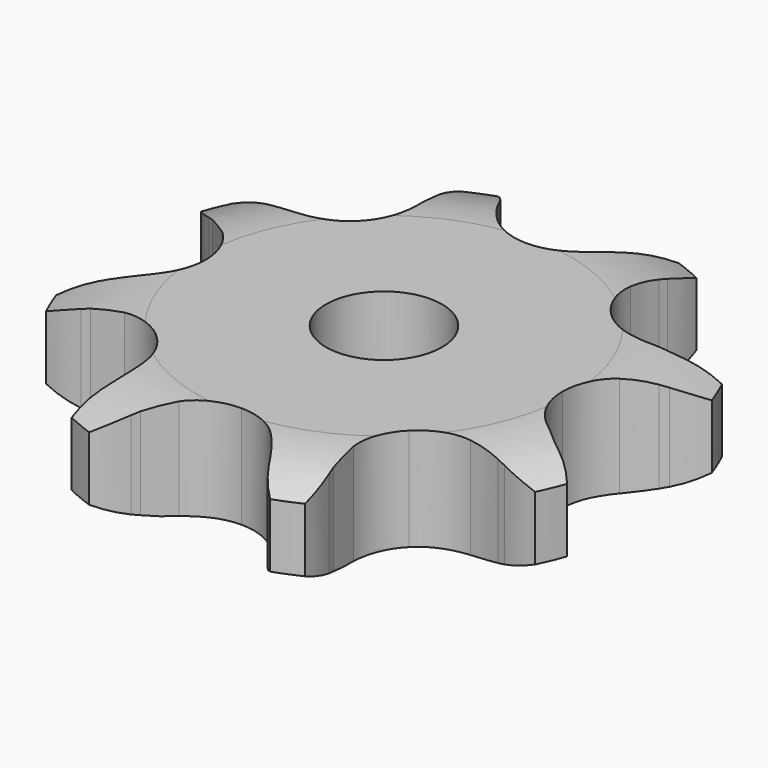
from build123d import *

# Parameters (mm, degrees)
PAD_DEPTH         = 5.3
SKETCH001_R       = 3
POCKET_DEPTH      = 0.001
POCKET_DEPTH_BACK = -5.301


with BuildPart() as part:
    # Sprocket → Pad (new body)
    with BuildSketch(Plane.XY):
        with BuildLine():
            ThreePointArc((-5.766758, 13.922185), (-4.521193, 13.063008), (-3.559374, 11.894879))
            Line((-3.559374, 11.894879), (-3.339197, 11.535583))
            ThreePointArc((-3.339197, 11.535583), (-2.890474, 10.876545), (-2.38065, 10.263548))
            ThreePointArc((-2.38065, 10.263548), (-1.300459, 9.489494), (0, 9.216037))
            ThreePointArc((0, 9.216037), (1.300459, 9.489494), (2.38065, 10.263548))
            ThreePointArc((2.38065, 10.263548), (2.890474, 10.876545), (3.339197, 11.535583))
            Line((3.339197, 11.535583), (3.559374, 11.894879))
            ThreePointArc((3.559374, 11.894879), (4.521193, 13.063008), (5.766758, 13.922185))
            ThreePointArc((5.766758, 13.922185), (6.039975, 12.433907), (5.894092, 10.927807))
            Line((5.894092, 10.927807), (5.79572, 10.518058))
            ThreePointArc((5.79572, 10.518058), (5.647005, 9.734752), (5.574051, 8.940798))
            ThreePointArc((5.574051, 8.940798), (5.790522, 7.629649), (6.516722, 6.516722))
            ThreePointArc((6.516722, 6.516722), (7.629649, 5.790522), (8.940798, 5.574051))
            Line((8.940798, 5.574051), (10.518058, 5.79572))
            ThreePointArc((10.518058, 5.79572), (10.722309, 5.847504), (10.927807, 5.894092))
            ThreePointArc((10.927807, 5.894092), (12.433907, 6.039975), (13.922185, 5.766758))
            ThreePointArc((13.922185, 5.766758), (13.063008, 4.521193), (11.894879, 3.559374))
            Line((11.894879, 3.559374), (11.535583, 3.339197))
            ThreePointArc((11.535583, 3.339197), (10.876545, 2.890474), (10.263548, 2.38065))
            ThreePointArc((10.263548, 2.38065), (9.489494, 1.300459), (9.216037, 0))
            ThreePointArc((9.216037, 0), (9.489494, -1.300459), (10.263548, -2.38065))
            Line((10.263548, -2.38065), (11.535583, -3.339197))
            ThreePointArc((11.535583, -3.339197), (11.716627, -3.447007), (11.894879, -3.559374))
            ThreePointArc((11.894879, -3.559374), (13.063008, -4.521193), (13.922185, -5.766758))
            ThreePointArc((13.922185, -5.766758), (12.433907, -6.039975), (10.927807, -5.894092))
            Line((10.927807, -5.894092), (10.518058, -5.79572))
            ThreePointArc((10.518058, -5.79572), (9.734752, -5.647005), (8.940798, -5.574051))
            ThreePointArc((8.940798, -5.574051), (7.629649, -5.790522), (6.516722, -6.516722))
            ThreePointArc((6.516722, -6.516722), (5.790522, -7.629649), (5.574051, -8.940798))
            Line((5.574051, -8.940798), (5.79572, -10.518058))
            ThreePointArc((5.79572, -10.518058), (5.847504, -10.722309), (5.894092, -10.927807))
            ThreePointArc((5.894092, -10.927807), (6.039975, -12.433907), (5.766758, -13.922185))
            ThreePointArc((5.766758, -13.922185), (4.521193, -13.063008), (3.559374, -11.894879))
            Line((3.559374, -11.894879), (3.339197, -11.535583))
            ThreePointArc((3.339197, -11.535583), (2.890474, -10.876545), (2.38065, -10.263548))
            ThreePointArc((2.38065, -10.263548), (1.300459, -9.489494), (0, -9.216037))
            ThreePointArc((0, -9.216037), (-1.300459, -9.489494), (-2.38065, -10.263548))
            Line((-2.38065, -10.263548), (-3.339197, -11.535583))
            ThreePointArc((-3.339197, -11.535583), (-3.447007, -11.716627), (-3.559374, -11.894879))
            ThreePointArc((-3.559374, -11.894879), (-4.521193, -13.063008), (-5.766758, -13.922185))
            ThreePointArc((-5.766758, -13.922185), (-6.039975, -12.433907), (-5.894092, -10.927807))
            Line((-5.894092, -10.927807), (-5.79572, -10.518058))
            ThreePointArc((-5.79572, -10.518058), (-5.647005, -9.734752), (-5.574051, -8.940798))
            ThreePointArc((-5.574051, -8.940798), (-5.790522, -7.629649), (-6.516722, -6.516722))
            ThreePointArc((-6.516722, -6.516722), (-7.629649, -5.790522), (-8.940798, -5.574051))
            Line((-8.940798, -5.574051), (-10.518058, -5.79572))
            ThreePointArc((-10.518058, -5.79572), (-10.722309, -5.847504), (-10.927807, -5.894092))
            ThreePointArc((-10.927807, -5.894092), (-12.433907, -6.039975), (-13.922185, -5.766758))
            ThreePointArc((-13.922185, -5.766758), (-13.063008, -4.521193), (-11.894879, -3.559374))
            Line((-11.894879, -3.559374), (-11.535583, -3.339197))
            ThreePointArc((-11.535583, -3.339197), (-10.876545, -2.890474), (-10.263548, -2.38065))
            ThreePointArc((-10.263548, -2.38065), (-9.489494, -1.300459), (-9.216037, 0))
            ThreePointArc((-9.216037, 0), (-9.489494, 1.300459), (-10.263548, 2.38065))
            Line((-10.263548, 2.38065), (-11.535583, 3.339197))
            ThreePointArc((-11.535583, 3.339197), (-11.716627, 3.447007), (-11.894879, 3.559374))
            ThreePointArc((-11.894879, 3.559374), (-13.063008, 4.521193), (-13.922185, 5.766758))
            ThreePointArc((-13.922185, 5.766758), (-12.433907, 6.039975), (-10.927807, 5.894092))
            Line((-10.927807, 5.894092), (-10.518058, 5.79572))
            ThreePointArc((-10.518058, 5.79572), (-9.734752, 5.647005), (-8.940798, 5.574051))
            ThreePointArc((-8.940798, 5.574051), (-7.629649, 5.790522), (-6.516722, 6.516722))
            ThreePointArc((-6.516722, 6.516722), (-5.790522, 7.629649), (-5.574051, 8.940798))
            Line((-5.574051, 8.940798), (-5.79572, 10.518058))
            ThreePointArc((-5.79572, 10.518058), (-5.847504, 10.722309), (-5.894092, 10.927807))
            ThreePointArc((-5.894092, 10.927807), (-6.039975, 12.433907), (-5.766758, 13.922185))
        make_face()
    extrude(amount=PAD_DEPTH)

    # Sketch → Groove (revolve, cut)
    with BuildSketch(Plane.XZ):
        with BuildLine():
            Line((9.641101, 0), (14, 0))
            Line((18.358899, 0), (14, 0))
            Line((18.358899, 5.3), (18.358899, 0))
            Line((14, 5.3), (18.358899, 5.3))
            Line((9.641101, 5.3), (14, 5.3))
            ThreePointArc((14, 4.3), (11.877169, 5.046794), (9.641101, 5.3))
            Line((14, 1), (14, 4.3))
            ThreePointArc((9.641101, 0), (11.877169, 0.253206), (14, 1))
        make_face()
    revolve(axis=Axis((0, 0, 0), (0, 0, 1)), mode=Mode.SUBTRACT)

    # Sketch001 → Pocket (cut, two sides)
    with BuildSketch(Plane.XY) as pocket_sk:
        Circle(SKETCH001_R)
    extrude(amount=-POCKET_DEPTH, mode=Mode.SUBTRACT)
    extrude(pocket_sk.sketch, amount=-POCKET_DEPTH_BACK, mode=Mode.SUBTRACT)


solid = part.part
